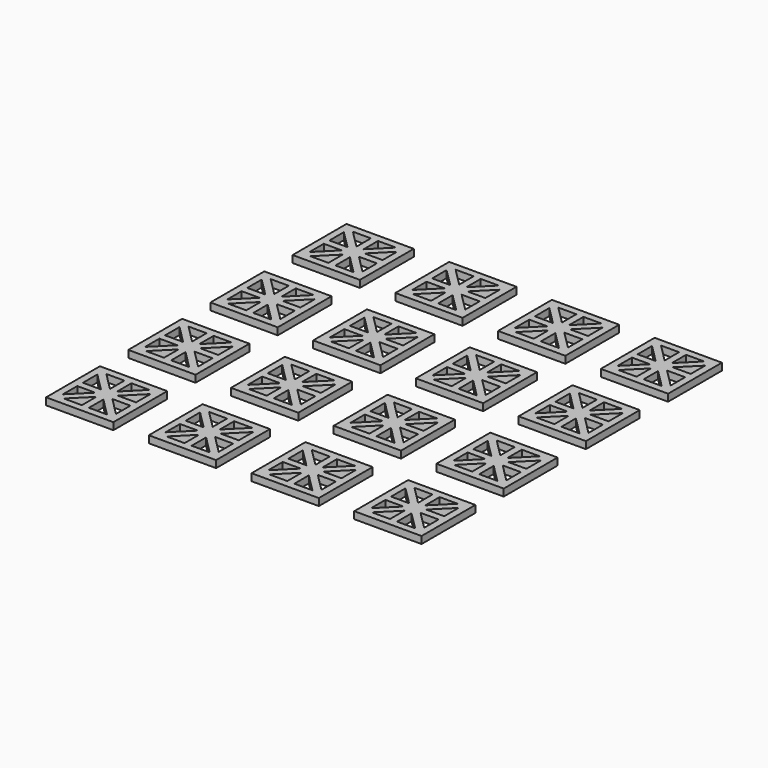
from build123d import *

# Parameters (mm, degrees)
F0_W     = 9.5
F0_H     = 9.5
F1_DEPTH = 1


with BuildPart() as f1:
    # F0 (on Top) → F1 (new body)
    with BuildSketch(Plane.XY):
        Rectangle(F0_W, F0_H)
        Polygon((-0.5, -3.75), (-3.04289, -3.75), (-0.5, -1.20711), align=None, mode=Mode.SUBTRACT)
        Polygon((-3.75, -3.04289), (-3.75, -0.5), (-1.20711, -0.5), align=None, mode=Mode.SUBTRACT)
        Polygon((0.5, -3.75), (0.5, -1.207107), (3.042893, -3.75), align=None, mode=Mode.SUBTRACT)
        Polygon((-3.75, 0.5), (-3.75, 3.042893), (-1.207107, 0.5), align=None, mode=Mode.SUBTRACT)
        Polygon((3.75, -3.042893), (1.207107, -0.5), (3.75, -0.5), align=None, mode=Mode.SUBTRACT)
        Polygon((3.75, 0.5), (1.20711, 0.5), (3.75, 3.04289), align=None, mode=Mode.SUBTRACT)
        Polygon((-3.042893, 3.75), (-0.5, 3.75), (-0.5, 1.207107), align=None, mode=Mode.SUBTRACT)
        Polygon((0.5, 3.75), (3.04289, 3.75), (0.5, 1.20711), align=None, mode=Mode.SUBTRACT)
        with Locations((14.5, 0)):
            Rectangle(F0_W, F0_H)
        Polygon((14, -3.75), (11.45711, -3.75), (14, -1.20711), align=None, mode=Mode.SUBTRACT)
        Polygon((10.75, -3.04289), (10.75, -0.5), (13.29289, -0.5), align=None, mode=Mode.SUBTRACT)
        Polygon((10.75, 0.5), (10.75, 3.042893), (13.292893, 0.5), align=None, mode=Mode.SUBTRACT)
        Polygon((15, -3.75), (15, -1.207107), (17.542893, -3.75), align=None, mode=Mode.SUBTRACT)
        Polygon((18.25, -3.042893), (15.707107, -0.5), (18.25, -0.5), align=None, mode=Mode.SUBTRACT)
        Polygon((18.25, 0.5), (15.70711, 0.5), (18.25, 3.04289), align=None, mode=Mode.SUBTRACT)
        Polygon((11.457107, 3.75), (14, 3.75), (14, 1.207107), align=None, mode=Mode.SUBTRACT)
        Polygon((15, 3.75), (17.54289, 3.75), (15, 1.20711), align=None, mode=Mode.SUBTRACT)
        with Locations((29, 0)):
            Rectangle(F0_W, F0_H)
        Polygon((25.25, -3.04289), (25.25, -0.5), (27.79289, -0.5), align=None, mode=Mode.SUBTRACT)
        Polygon((28.5, -3.75), (25.95711, -3.75), (28.5, -1.20711), align=None, mode=Mode.SUBTRACT)
        Polygon((25.25, 0.5), (25.25, 3.042893), (27.792893, 0.5), align=None, mode=Mode.SUBTRACT)
        Polygon((29.5, -3.75), (29.5, -1.207107), (32.042893, -3.75), align=None, mode=Mode.SUBTRACT)
        Polygon((32.75, -3.042893), (30.207107, -0.5), (32.75, -0.5), align=None, mode=Mode.SUBTRACT)
        Polygon((32.75, 0.5), (30.20711, 0.5), (32.75, 3.04289), align=None, mode=Mode.SUBTRACT)
        Polygon((25.957107, 3.75), (28.5, 3.75), (28.5, 1.207107), align=None, mode=Mode.SUBTRACT)
        Polygon((29.5, 3.75), (32.04289, 3.75), (29.5, 1.20711), align=None, mode=Mode.SUBTRACT)
        with Locations((0, 14.5)):
            Rectangle(F0_W, F0_H)
        Polygon((-0.5, 10.75), (-3.04289, 10.75), (-0.5, 13.29289), align=None, mode=Mode.SUBTRACT)
        Polygon((-3.75, 11.45711), (-3.75, 14), (-1.20711, 14), align=None, mode=Mode.SUBTRACT)
        Polygon((0.5, 10.75), (0.5, 13.292893), (3.042893, 10.75), align=None, mode=Mode.SUBTRACT)
        Polygon((3.75, 11.457107), (1.207107, 14), (3.75, 14), align=None, mode=Mode.SUBTRACT)
        Polygon((-3.75, 15), (-3.75, 17.542893), (-1.207107, 15), align=None, mode=Mode.SUBTRACT)
        Polygon((-3.042893, 18.25), (-0.5, 18.25), (-0.5, 15.707107), align=None, mode=Mode.SUBTRACT)
        Polygon((0.5, 18.25), (3.04289, 18.25), (0.5, 15.70711), align=None, mode=Mode.SUBTRACT)
        Polygon((3.75, 15), (1.20711, 15), (3.75, 17.54289), align=None, mode=Mode.SUBTRACT)
        with Locations((14.5, 14.5)):
            Rectangle(F0_W, F0_H)
        Polygon((14, 10.75), (11.45711, 10.75), (14, 13.29289), align=None, mode=Mode.SUBTRACT)
        Polygon((10.75, 11.45711), (10.75, 14), (13.29289, 14), align=None, mode=Mode.SUBTRACT)
        Polygon((15, 10.75), (15, 13.292893), (17.542893, 10.75), align=None, mode=Mode.SUBTRACT)
        Polygon((18.25, 11.457107), (15.707107, 14), (18.25, 14), align=None, mode=Mode.SUBTRACT)
        Polygon((10.75, 15), (10.75, 17.542893), (13.292893, 15), align=None, mode=Mode.SUBTRACT)
        Polygon((11.457107, 18.25), (14, 18.25), (14, 15.707107), align=None, mode=Mode.SUBTRACT)
        Polygon((18.25, 15), (15.70711, 15), (18.25, 17.54289), align=None, mode=Mode.SUBTRACT)
        Polygon((15, 18.25), (17.54289, 18.25), (15, 15.70711), align=None, mode=Mode.SUBTRACT)
        with Locations((29, 14.5)):
            Rectangle(F0_W, F0_H)
        Polygon((25.25, 11.45711), (25.25, 14), (27.79289, 14), align=None, mode=Mode.SUBTRACT)
        Polygon((28.5, 10.75), (25.95711, 10.75), (28.5, 13.29289), align=None, mode=Mode.SUBTRACT)
        Polygon((29.5, 10.75), (29.5, 13.292893), (32.042893, 10.75), align=None, mode=Mode.SUBTRACT)
        Polygon((32.75, 11.457107), (30.207107, 14), (32.75, 14), align=None, mode=Mode.SUBTRACT)
        Polygon((25.25, 15), (25.25, 17.542893), (27.792893, 15), align=None, mode=Mode.SUBTRACT)
        Polygon((25.957107, 18.25), (28.5, 18.25), (28.5, 15.707107), align=None, mode=Mode.SUBTRACT)
        Polygon((32.75, 15), (30.20711, 15), (32.75, 17.54289), align=None, mode=Mode.SUBTRACT)
        Polygon((29.5, 18.25), (32.04289, 18.25), (29.5, 15.70711), align=None, mode=Mode.SUBTRACT)
        with Locations((43.5, 0)):
            Rectangle(F0_W, F0_H)
        Polygon((39.75, -3.04289), (39.75, -0.5), (42.29289, -0.5), align=None, mode=Mode.SUBTRACT)
        Polygon((39.75, 0.5), (39.75, 3.042893), (42.292893, 0.5), align=None, mode=Mode.SUBTRACT)
        Polygon((43, -3.75), (40.45711, -3.75), (43, -1.20711), align=None, mode=Mode.SUBTRACT)
        Polygon((44, -3.75), (44, -1.207107), (46.542893, -3.75), align=None, mode=Mode.SUBTRACT)
        Polygon((47.25, -3.042893), (44.707107, -0.5), (47.25, -0.5), align=None, mode=Mode.SUBTRACT)
        Polygon((47.25, 0.5), (44.70711, 0.5), (47.25, 3.04289), align=None, mode=Mode.SUBTRACT)
        Polygon((40.457107, 3.75), (43, 3.75), (43, 1.207107), align=None, mode=Mode.SUBTRACT)
        Polygon((44, 3.75), (46.54289, 3.75), (44, 1.20711), align=None, mode=Mode.SUBTRACT)
        with Locations((43.5, 14.5)):
            Rectangle(F0_W, F0_H)
        Polygon((39.75, 11.45711), (39.75, 14), (42.29289, 14), align=None, mode=Mode.SUBTRACT)
        Polygon((43, 10.75), (40.45711, 10.75), (43, 13.29289), align=None, mode=Mode.SUBTRACT)
        Polygon((44, 10.75), (44, 13.292893), (46.542893, 10.75), align=None, mode=Mode.SUBTRACT)
        Polygon((47.25, 11.457107), (44.707107, 14), (47.25, 14), align=None, mode=Mode.SUBTRACT)
        Polygon((39.75, 15), (39.75, 17.542893), (42.292893, 15), align=None, mode=Mode.SUBTRACT)
        Polygon((40.457107, 18.25), (43, 18.25), (43, 15.707107), align=None, mode=Mode.SUBTRACT)
        Polygon((47.25, 15), (44.70711, 15), (47.25, 17.54289), align=None, mode=Mode.SUBTRACT)
        Polygon((44, 18.25), (46.54289, 18.25), (44, 15.70711), align=None, mode=Mode.SUBTRACT)
        with Locations((0, 29)):
            Rectangle(F0_W, F0_H)
        Polygon((-0.5, 25.25), (-3.04289, 25.25), (-0.5, 27.79289), align=None, mode=Mode.SUBTRACT)
        Polygon((-3.75, 25.95711), (-3.75, 28.5), (-1.20711, 28.5), align=None, mode=Mode.SUBTRACT)
        Polygon((0.5, 25.25), (0.5, 27.792893), (3.042893, 25.25), align=None, mode=Mode.SUBTRACT)
        Polygon((3.75, 25.957107), (1.207107, 28.5), (3.75, 28.5), align=None, mode=Mode.SUBTRACT)
        Polygon((-3.75, 29.5), (-3.75, 32.042893), (-1.207107, 29.5), align=None, mode=Mode.SUBTRACT)
        Polygon((-3.042893, 32.75), (-0.5, 32.75), (-0.5, 30.207107), align=None, mode=Mode.SUBTRACT)
        Polygon((0.5, 32.75), (3.04289, 32.75), (0.5, 30.20711), align=None, mode=Mode.SUBTRACT)
        Polygon((3.75, 29.5), (1.20711, 29.5), (3.75, 32.04289), align=None, mode=Mode.SUBTRACT)
        with Locations((14.5, 29)):
            Rectangle(F0_W, F0_H)
        Polygon((14, 25.25), (11.45711, 25.25), (14, 27.79289), align=None, mode=Mode.SUBTRACT)
        Polygon((10.75, 25.95711), (10.75, 28.5), (13.29289, 28.5), align=None, mode=Mode.SUBTRACT)
        Polygon((15, 25.25), (15, 27.792893), (17.542893, 25.25), align=None, mode=Mode.SUBTRACT)
        Polygon((18.25, 25.957107), (15.707107, 28.5), (18.25, 28.5), align=None, mode=Mode.SUBTRACT)
        Polygon((10.75, 29.5), (10.75, 32.042893), (13.292893, 29.5), align=None, mode=Mode.SUBTRACT)
        Polygon((11.457107, 32.75), (14, 32.75), (14, 30.207107), align=None, mode=Mode.SUBTRACT)
        Polygon((15, 32.75), (17.54289, 32.75), (15, 30.20711), align=None, mode=Mode.SUBTRACT)
        Polygon((18.25, 29.5), (15.70711, 29.5), (18.25, 32.04289), align=None, mode=Mode.SUBTRACT)
        with Locations((29, 29)):
            Rectangle(F0_W, F0_H)
        Polygon((28.5, 25.25), (25.95711, 25.25), (28.5, 27.79289), align=None, mode=Mode.SUBTRACT)
        Polygon((25.25, 25.95711), (25.25, 28.5), (27.79289, 28.5), align=None, mode=Mode.SUBTRACT)
        Polygon((29.5, 25.25), (29.5, 27.792893), (32.042893, 25.25), align=None, mode=Mode.SUBTRACT)
        Polygon((32.75, 25.957107), (30.207107, 28.5), (32.75, 28.5), align=None, mode=Mode.SUBTRACT)
        Polygon((25.25, 29.5), (25.25, 32.042893), (27.792893, 29.5), align=None, mode=Mode.SUBTRACT)
        Polygon((25.957107, 32.75), (28.5, 32.75), (28.5, 30.207107), align=None, mode=Mode.SUBTRACT)
        Polygon((32.75, 29.5), (30.20711, 29.5), (32.75, 32.04289), align=None, mode=Mode.SUBTRACT)
        Polygon((29.5, 32.75), (32.04289, 32.75), (29.5, 30.20711), align=None, mode=Mode.SUBTRACT)
        with Locations((0, 43.5)):
            Rectangle(F0_W, F0_H)
        Polygon((-0.5, 39.75), (-3.04289, 39.75), (-0.5, 42.29289), align=None, mode=Mode.SUBTRACT)
        Polygon((0.5, 39.75), (0.5, 42.292893), (3.042893, 39.75), align=None, mode=Mode.SUBTRACT)
        Polygon((-3.75, 40.45711), (-3.75, 43), (-1.20711, 43), align=None, mode=Mode.SUBTRACT)
        Polygon((-3.75, 44), (-3.75, 46.542893), (-1.207107, 44), align=None, mode=Mode.SUBTRACT)
        Polygon((-3.042893, 47.25), (-0.5, 47.25), (-0.5, 44.707107), align=None, mode=Mode.SUBTRACT)
        Polygon((0.5, 47.25), (3.04289, 47.25), (0.5, 44.70711), align=None, mode=Mode.SUBTRACT)
        Polygon((3.75, 40.457107), (1.207107, 43), (3.75, 43), align=None, mode=Mode.SUBTRACT)
        Polygon((3.75, 44), (1.20711, 44), (3.75, 46.54289), align=None, mode=Mode.SUBTRACT)
        with Locations((14.5, 43.5)):
            Rectangle(F0_W, F0_H)
        Polygon((14, 39.75), (11.45711, 39.75), (14, 42.29289), align=None, mode=Mode.SUBTRACT)
        Polygon((15, 39.75), (15, 42.292893), (17.542893, 39.75), align=None, mode=Mode.SUBTRACT)
        Polygon((10.75, 40.45711), (10.75, 43), (13.29289, 43), align=None, mode=Mode.SUBTRACT)
        Polygon((10.75, 44), (10.75, 46.542893), (13.292893, 44), align=None, mode=Mode.SUBTRACT)
        Polygon((11.457107, 47.25), (14, 47.25), (14, 44.707107), align=None, mode=Mode.SUBTRACT)
        Polygon((18.25, 40.457107), (15.707107, 43), (18.25, 43), align=None, mode=Mode.SUBTRACT)
        Polygon((15, 47.25), (17.54289, 47.25), (15, 44.70711), align=None, mode=Mode.SUBTRACT)
        Polygon((18.25, 44), (15.70711, 44), (18.25, 46.54289), align=None, mode=Mode.SUBTRACT)
        with Locations((29, 43.5)):
            Rectangle(F0_W, F0_H)
        Polygon((28.5, 39.75), (25.95711, 39.75), (28.5, 42.29289), align=None, mode=Mode.SUBTRACT)
        Polygon((29.5, 39.75), (29.5, 42.292893), (32.042893, 39.75), align=None, mode=Mode.SUBTRACT)
        Polygon((25.25, 40.45711), (25.25, 43), (27.79289, 43), align=None, mode=Mode.SUBTRACT)
        Polygon((25.25, 44), (25.25, 46.542893), (27.792893, 44), align=None, mode=Mode.SUBTRACT)
        Polygon((25.957107, 47.25), (28.5, 47.25), (28.5, 44.707107), align=None, mode=Mode.SUBTRACT)
        Polygon((32.75, 40.457107), (30.207107, 43), (32.75, 43), align=None, mode=Mode.SUBTRACT)
        Polygon((32.75, 44), (30.20711, 44), (32.75, 46.54289), align=None, mode=Mode.SUBTRACT)
        Polygon((29.5, 47.25), (32.04289, 47.25), (29.5, 44.70711), align=None, mode=Mode.SUBTRACT)
        with Locations((43.5, 29)):
            Rectangle(F0_W, F0_H)
        Polygon((39.75, 25.95711), (39.75, 28.5), (42.29289, 28.5), align=None, mode=Mode.SUBTRACT)
        Polygon((43, 25.25), (40.45711, 25.25), (43, 27.79289), align=None, mode=Mode.SUBTRACT)
        Polygon((44, 25.25), (44, 27.792893), (46.542893, 25.25), align=None, mode=Mode.SUBTRACT)
        Polygon((47.25, 25.957107), (44.707107, 28.5), (47.25, 28.5), align=None, mode=Mode.SUBTRACT)
        Polygon((39.75, 29.5), (39.75, 32.042893), (42.292893, 29.5), align=None, mode=Mode.SUBTRACT)
        Polygon((40.457107, 32.75), (43, 32.75), (43, 30.207107), align=None, mode=Mode.SUBTRACT)
        Polygon((47.25, 29.5), (44.70711, 29.5), (47.25, 32.04289), align=None, mode=Mode.SUBTRACT)
        Polygon((44, 32.75), (46.54289, 32.75), (44, 30.20711), align=None, mode=Mode.SUBTRACT)
        with Locations((43.5, 43.5)):
            Rectangle(F0_W, F0_H)
        Polygon((43, 39.75), (40.45711, 39.75), (43, 42.29289), align=None, mode=Mode.SUBTRACT)
        Polygon((44, 39.75), (44, 42.292893), (46.542893, 39.75), align=None, mode=Mode.SUBTRACT)
        Polygon((39.75, 40.45711), (39.75, 43), (42.29289, 43), align=None, mode=Mode.SUBTRACT)
        Polygon((39.75, 44), (39.75, 46.542893), (42.292893, 44), align=None, mode=Mode.SUBTRACT)
        Polygon((47.25, 40.457107), (44.707107, 43), (47.25, 43), align=None, mode=Mode.SUBTRACT)
        Polygon((40.457107, 47.25), (43, 47.25), (43, 44.707107), align=None, mode=Mode.SUBTRACT)
        Polygon((47.25, 44), (44.70711, 44), (47.25, 46.54289), align=None, mode=Mode.SUBTRACT)
        Polygon((44, 47.25), (46.54289, 47.25), (44, 44.70711), align=None, mode=Mode.SUBTRACT)
    extrude(amount=F1_DEPTH)


solid = f1.part
